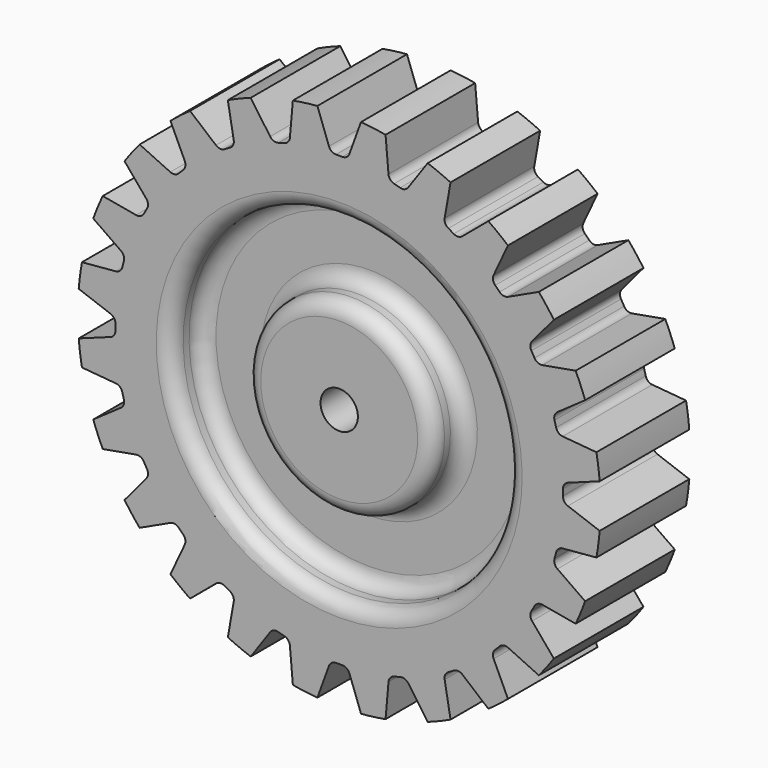
from build123d import *

# Parameters (mm, degrees)
F2_R     = 6.35
F3_DEPTH = 38.1
F4_R     = 5.08
F6_DEPTH = 19.05
F7_COUNT = 24


with BuildPart() as f1:
    # F0 (on Right) → F1 (revolve)
    with BuildSketch(Plane.YZ):
        Polygon((19.05, -12.7), (6.35, -12.7), (6.35, 12.7), (19.05, 12.7), (19.05, 44.45), (-19.05, 44.45), (-19.05, 12.7), (-6.35, 12.7), (-6.35, -12.7), (-19.05, -12.7), (-19.05, -44.45), (19.05, -44.45), align=None)
    revolve(axis=Axis((0, 0, 44.45), (0, -1, 0)))

    # F2 (on face) → F3 (cut)
    with BuildSketch(Plane.XZ.offset(19.05)):
        with Locations((0, 44.45)):
            Circle(F2_R)
    extrude(amount=-F3_DEPTH, mode=Mode.SUBTRACT)

    # F4
    f4_edges = [f1.edges().sort_by_distance(p)[0] for p in [
        (0, -6.35, 101.6),
        (0, -19.05, 101.6),
        (0, -6.35, 76.2),
        (0, -19.05, 76.2),
        (0, 19.05, 101.6),
        (0, 6.35, 101.6),
        (0, 6.35, 76.2),
        (0, 19.05, 76.2),
    ]]
    fillet(f4_edges, radius=F4_R)

    # F5 (on Front) → F6 (cut, symmetric)
    with BuildSketch(Plane.XZ):
        with BuildLine():
            ThreePointArc((-1.0561691695, 120.549473041), (0, 120.5567929025), (1.0561691695, 120.549473041))
            ThreePointArc((1.0561691695, 120.549473041), (2.533804237, 120.998536016), (3.4781940652, 122.2204978815))
            Line((3.4781940652, 122.2204978815), (7.428308095, 133.0733469826))
            ThreePointArc((7.428308095, 133.0733469826), (0, 133.3837929025), (-7.428308095, 133.0733469826))
            Line((-7.428308095, 133.0733469826), (-3.4781940652, 122.2204978815))
            ThreePointArc((-3.4781940652, 122.2204978815), (-2.533804237, 120.998536016), (-1.0561691695, 120.549473041))
        make_face()
    f6 = extrude(amount=F6_DEPTH, both=True, mode=Mode.SUBTRACT)

    # F7: F6 ×24 about axis
    f7_axis = Axis((0, -19.05, 44.45), (0, 1, 0))
    for i in range(1, F7_COUNT):
        add(f6.rotate(f7_axis, i * 360 / F7_COUNT), mode=Mode.SUBTRACT)


solid = f1.part
